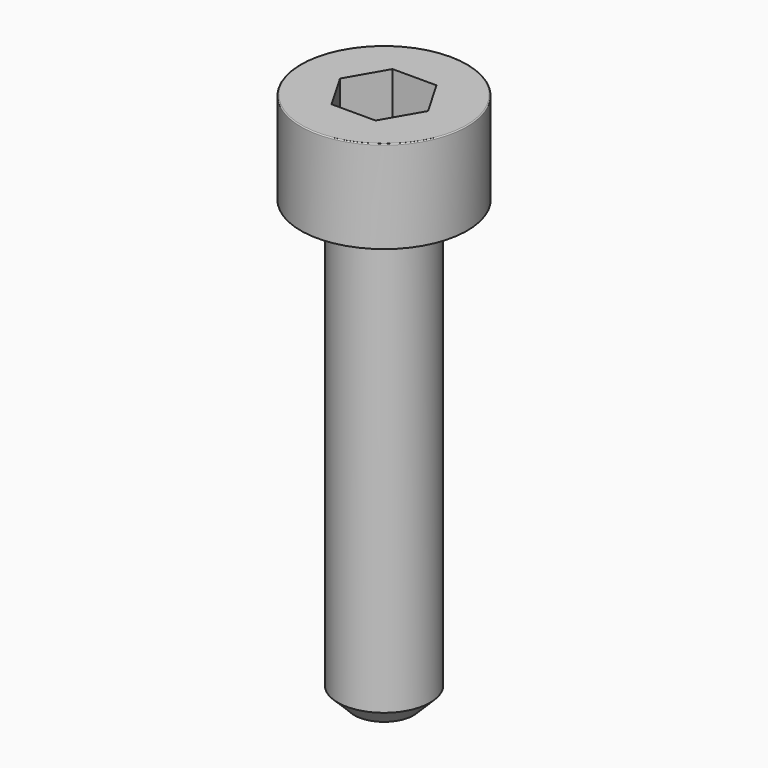
from build123d import *

# Parameters (mm, degrees)
POCKET_DEPTH = 2.06


with BuildPart() as part:
    # Sketch → Revolve (revolve)
    with BuildSketch(Plane.YZ):
        with BuildLine():
            Line((1.249, 0), (2.25, 0))
            Line((2.25, 0), (2.25, 2.47229))
            ThreePointArc((2.25, 2.47229), (2.241884, 2.491884), (2.22229, 2.5))
            Line((2.22229, 2.5), (0, 2.5))
            Line((0, -12), (0, 2.5))
            Line((0.8, -12), (0, -12))
            Line((1.25, -11.55), (0.8, -12))
            Line((1.25, -0.2), (1.25, -11.55))
            Line((1.249, 0), (1.25, -0.2))
        make_face()
    revolve(axis=Axis((0, 0, 0), (0, 0, 1)))

    # Sketch001 → Pocket (cut)
    with BuildSketch(Plane.XY.offset(2.5)):
        Polygon((1.189342, 0), (0.594671, 1.03), (-0.594671, 1.03), (-1.189342, 0), (-0.594671, -1.03), (0.594671, -1.03), align=None)
    extrude(amount=-POCKET_DEPTH, mode=Mode.SUBTRACT)


solid = part.part
